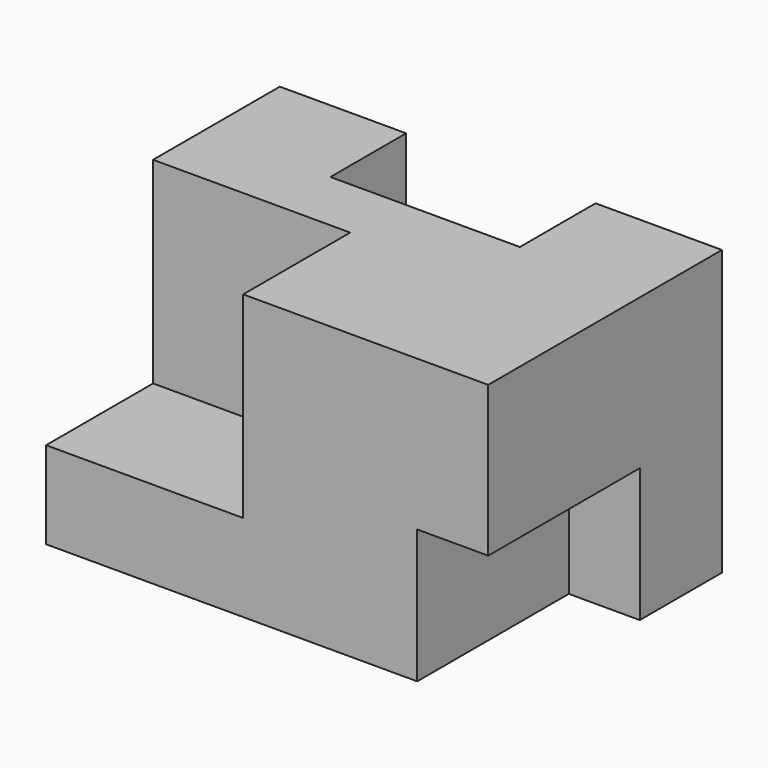
from build123d import *

# Parameters (mm, degrees)
F1_DEPTH = 35.9918
F2_W     = 24.003
F2_H     = 16.9418
F3_DEPTH = 8.9916
F4_W     = 24.9682
F4_H     = 24.9428
F5_DEPTH = 16.9418


with BuildPart() as f1:
    # F0 (on Top) → F1 (new body)
    with BuildSketch(Plane.XY):
        Polygon((28.0035, -18.5039), (28.0035, 18.5039), (12.0015, 18.5039), (12.0015, 6.5151), (-12.0015, 6.5151), (-12.0015, 18.5039), (-28.0035, 18.5039), (-28.0035, -18.5039), align=None)
    extrude(amount=F1_DEPTH)

    # F2 (on face) → F3 (cut)
    with BuildSketch(Plane.YZ.offset(28.0035)):
        with Locations((-6.5024, 8.4709)):
            Rectangle(F2_W, F2_H)
    extrude(amount=-F3_DEPTH, mode=Mode.SUBTRACT)

    # F4 (on face) → F5 (cut)
    with BuildSketch(Plane.XZ.offset(18.5039)):
        with Locations((-15.5194, 23.5204)):
            Rectangle(F4_W, F4_H)
    extrude(amount=-F5_DEPTH, mode=Mode.SUBTRACT)


solid = f1.part
